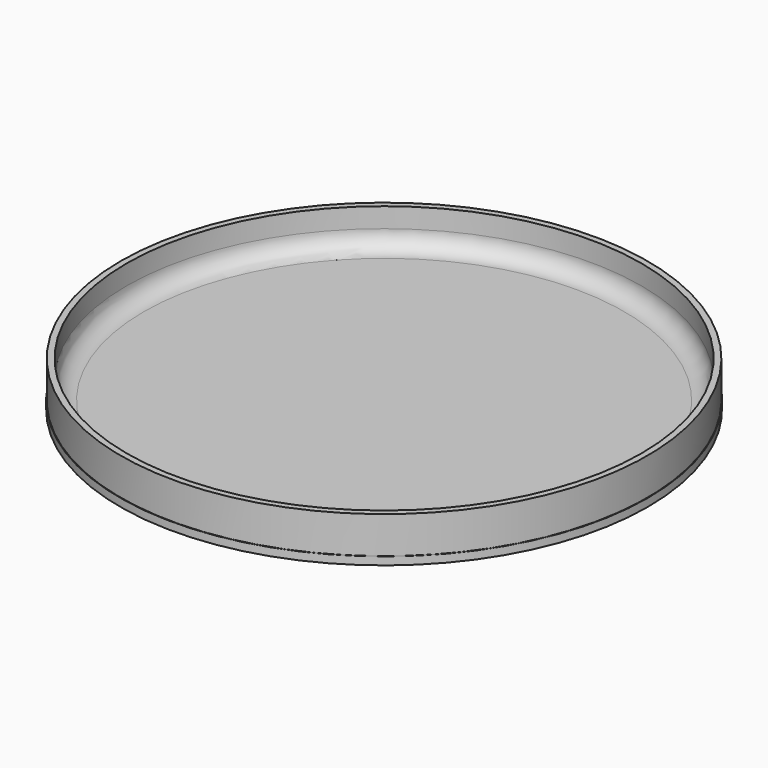
from build123d import *

# Parameters (mm, degrees)
F0_R     = 50
F1_DEPTH = 1.5


with BuildPart() as f1:
    # F0 (on Top) → F1 (new body)
    with BuildSketch(Plane.XY):
        Circle(F0_R)
    extrude(amount=F1_DEPTH)

    # F2 (on Front) → F3 (revolve)
    with BuildSketch(Plane.XZ):
        with BuildLine():
            Line((-49.9, 8.5), (-49.9, 0))
            Line((-49.9, 0), (-48.75, 0))
            Line((-48.75, 0), (-45.5, 0))
            Line((-45.5, 0), (-45.5, 1.5))
            ThreePointArc((-45.5, 1.5), (-47.798097, 2.451903), (-48.75, 4.75))
            Line((-48.75, 4.75), (-48.75, 8.5))
            Line((-48.75, 8.5), (-49.9, 8.5))
        make_face()
    revolve(axis=Axis((0, 0, 0), (0, 0, -1)))


solid = f1.part
